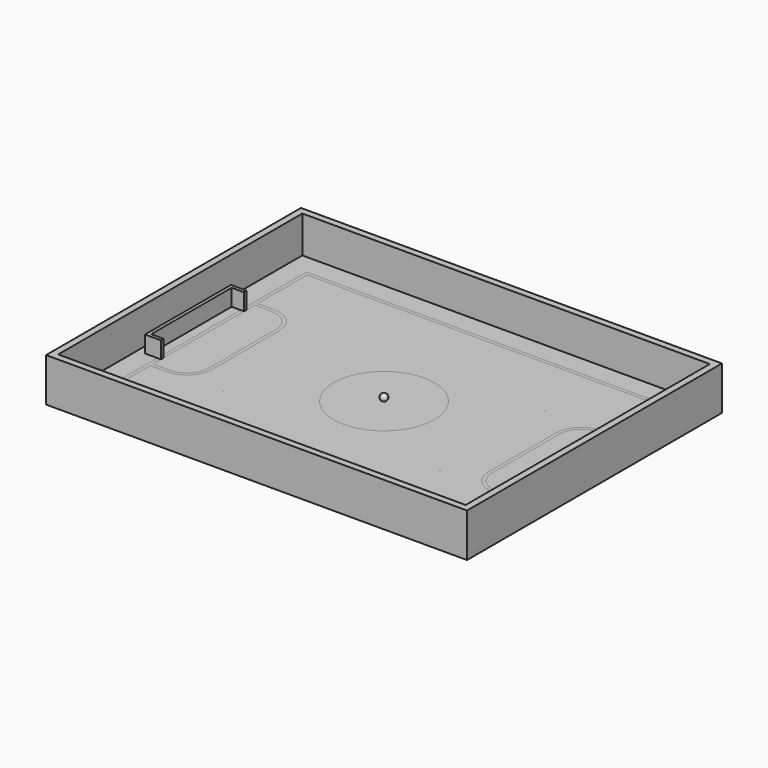
from build123d import *

# Parameters (mm, degrees)
SKETCH_W      = 2510
SKETCH_H      = 1900
PAD_DEPTH     = 40
SKETCH001_W   = 2510
SKETCH001_H   = 1900
SKETCH001_W_2 = 2430
SKETCH001_H_2 = 1820
PAD001_DEPTH  = 220
SKETCH002_W   = 2190
SKETCH002_H   = 1580
PAD002_DEPTH  = 0.001
PAD003_DEPTH  = 100
PAD004_DEPTH  = 100
SKETCH005_R   = 300
SKETCH005_R_2 = 2
PAD005_DEPTH  = 0.001


with BuildPart() as field:
    # Sketch → Pad (new body)
    with BuildSketch(Plane.XY):
        Rectangle(SKETCH_W, SKETCH_H)
    extrude(amount=PAD_DEPTH)

    # Sketch001 (on Face6 of Pad) → Pad001 (join)
    with BuildSketch(Plane.XY.offset(40)):
        Rectangle(SKETCH001_W, SKETCH001_H)
        Rectangle(SKETCH001_W_2, SKETCH001_H_2, mode=Mode.SUBTRACT)
    extrude(amount=PAD001_DEPTH)

    # Sketch002 (on Face15 of Pad001) → Pad002 (join)
    with BuildSketch(Plane.XY.offset(40)):
        Rectangle(SKETCH002_W, SKETCH002_H)
        with BuildLine():
            Line((-1074.509328, 770), (1075.490672, 770))
            Line((1075.490672, 770), (1075.490672, 400))
            Line((1075.490672, 400), (975.490678, 400))
            ThreePointArc((975.490678, 400), (869.424613, 356.065975), (825.490672, 249.999873))
            Line((825.490672, -250), (825.490672, 249.999873))
            ThreePointArc((825.490672, -250), (869.424655, -356.066017), (975.490672, -400))
            Line((1075.490672, -400), (975.490672, -400))
            Line((1075.490672, -770), (1075.490672, -400))
            Line((1075.490672, -770), (-1074.509328, -770))
            Line((-1074.509328, -770), (-1074.509328, -400))
            Line((-1074.509328, -400), (-974.509328, -400))
            ThreePointArc((-974.509328, -400), (-868.443311, -356.066018), (-824.509328, -250.000002))
            Line((-824.509328, -250.000002), (-824.509328, 250))
            ThreePointArc((-824.509328, 250), (-868.44331, 356.066017), (-974.509328, 400))
            Line((-1074.509328, 400), (-974.509328, 400))
            Line((-1074.509328, 770), (-1074.509328, 400))
        make_face(mode=Mode.SUBTRACT)
        with BuildLine():
            Line((-1074.50933, -380), (-974.50933, -380))
            ThreePointArc((-974.50933, -380), (-882.585448, -341.923884), (-844.509328, -250.000003))
            Line((-844.509328, 249.999998), (-844.509328, -250.000003))
            ThreePointArc((-844.509328, 249.999998), (-882.585446, 341.923882), (-974.50933, 380))
            Line((-1074.50933, 380), (-974.50933, 380))
            Line((-1074.50933, 380), (-1074.50933, -380))
        make_face(mode=Mode.SUBTRACT)
        with BuildLine():
            Line((1075.490672, 380), (975.490678, 380))
            ThreePointArc((975.490678, 380), (883.566748, 341.923839), (845.490672, 249.999873))
            Line((845.490672, 249.999873), (845.490672, -250))
            ThreePointArc((845.490672, -250), (883.566791, -341.923882), (975.490672, -380))
            Line((1075.490672, -380), (975.490672, -380))
            Line((1075.490672, -380), (1075.490672, 380))
        make_face(mode=Mode.SUBTRACT)
    extrude(amount=PAD002_DEPTH)

    # Sketch003 (on Face49 of Pad002) → Pad003 (join)
    with BuildSketch(Plane.XY.offset(40)):
        Polygon((-1148.50933, 300), (-1148.50933, -300), (-1074.50933, -300), (-1074.50933, -320), (-1168.50933, -320), (-1168.50933, 320), (-1074.50933, 320), (-1074.50933, 300), align=None)
    extrude(amount=PAD003_DEPTH)

    # Sketch004 (on Face49 of Pad002) → Pad004 (join)
    with BuildSketch(Plane.XY.offset(40)):
        Polygon((1169.490672, 320), (1169.490672, -320), (1075.490672, -320), (1075.490672, -300), (1149.490672, -300), (1149.490672, 300), (1075.490672, 300), (1075.490672, 320), align=None)
    extrude(amount=PAD004_DEPTH)

    # Sketch005 (on Face76 of Pad004) → Pad005 (join)
    with BuildSketch(Plane.XY.offset(40)):
        Circle(SKETCH005_R)
        Circle(SKETCH005_R_2, mode=Mode.SUBTRACT)
        with Locations((-645, -390)):
            Circle(SKETCH005_R_2)
        with Locations((-645, 390)):
            Circle(SKETCH005_R_2)
        with Locations((645, 390)):
            Circle(SKETCH005_R_2)
        with Locations((645, -390)):
            Circle(SKETCH005_R_2)
    extrude(amount=PAD005_DEPTH)


with BuildPart() as field_1:
    # Body placement: moved
    add(field.part.moved(Location((0, 0, -79))))


with BuildPart() as obj1:
    # Sphere → Sphere (revolve)
    with BuildSketch(Plane(origin=(0.2, -1, -18), x_dir=(1, 0, 0), z_dir=(0, -1, 0))):
        with BuildLine():
            ThreePointArc((0, -21), (21, 0), (0, 21))
            Line((0, 21), (0, -21))
        make_face()
    revolve(axis=Axis((0.2, -1, -18), (0, 0, 1)))


solid = Compound([field_1.part, obj1.part])
